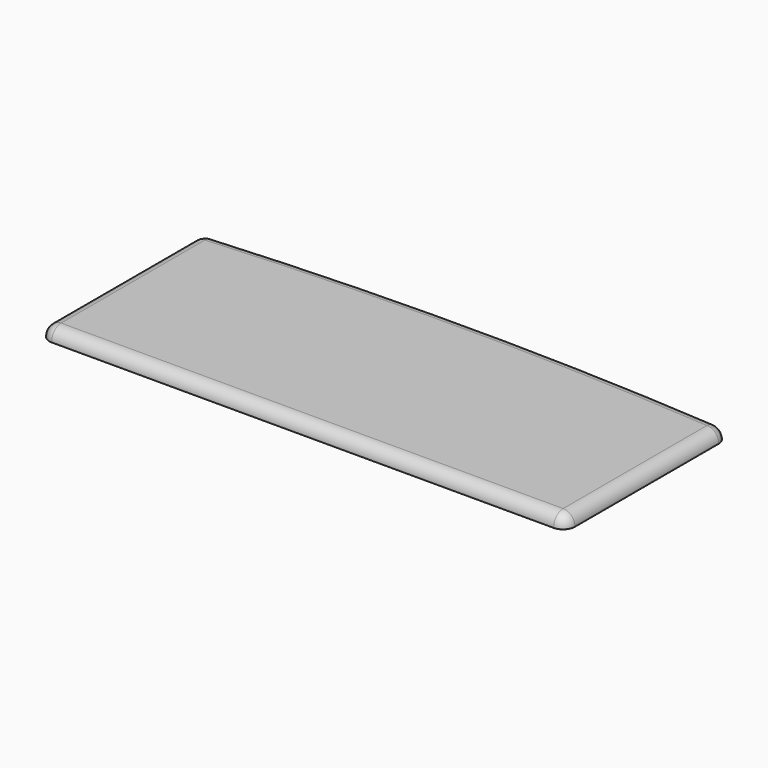
from build123d import *

# Parameters (mm, degrees)
PAD_DEPTH   = 22
FILLET_R    = 21
FILLET001_R = 21
FILLET002_R = 21
FILLET003_R = 21


with BuildPart() as part:
    # Sketch → Pad (new body)
    with BuildSketch(Plane.XY):
        with BuildLine():
            Line((940, 362), (940, 0))
            Line((940, 0), (0, 0))
            Line((0, 0), (0, 362))
            ThreePointArc((940, 362), (470, 380), (0, 362))
        make_face()
    extrude(amount=PAD_DEPTH)

    # Fillet
    fillet_edges = [part.edges().sort_by_distance(p)[0] for p in [
        (470, 380, 22),
    ]]
    fillet(fillet_edges, radius=FILLET_R)

    # Fillet001
    fillet001_edges = [part.edges().sort_by_distance(p)[0] for p in [
        (470, 0, 22),
    ]]
    fillet(fillet001_edges, radius=FILLET001_R)

    # Fillet002
    fillet002_edges = [part.edges().sort_by_distance(p)[0] for p in [
        (0, 180.969047, 22),
    ]]
    fillet(fillet002_edges, radius=FILLET002_R)

    # Fillet003
    fillet003_edges = [part.edges().sort_by_distance(p)[0] for p in [
        (940, 180.969047, 22),
    ]]
    fillet(fillet003_edges, radius=FILLET003_R)


solid = part.part
